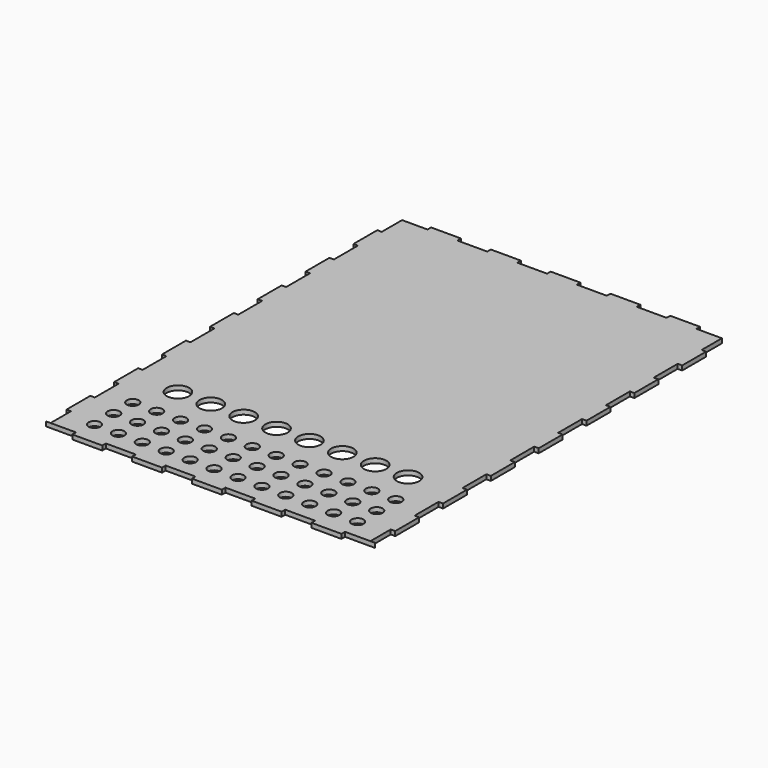
from build123d import *

# Parameters (mm, degrees)
SKETCH_W      = 220
SKETCH_H      = 300
PAD_DEPTH     = 3
SKETCH001_R   = 7.5
SKETCH001_R_2 = 4
SKETCH001_W   = 20
SKETCH001_H   = 3
SKETCH001_W_2 = 3
SKETCH001_H_2 = 20
SKETCH001_H_3 = 17
POCKET_DEPTH  = 5


with BuildPart() as part:
    # Sketch → Pad (new body)
    with BuildSketch(Plane.XY):
        with Locations((110, 150)):
            Rectangle(SKETCH_W, SKETCH_H)
    extrude(amount=PAD_DEPTH)

    # Sketch001 (on Face6 of Pad) → Pocket (cut)
    with BuildSketch(Plane.XY.offset(3)):
        with Locations((33, 72)):
            Circle(SKETCH001_R)
        with Locations((55, 72)):
            Circle(SKETCH001_R)
        with Locations((77, 72)):
            Circle(SKETCH001_R)
        with Locations((99, 72)):
            Circle(SKETCH001_R)
        with Locations((121, 72)):
            Circle(SKETCH001_R)
        with Locations((143, 72)):
            Circle(SKETCH001_R)
        with Locations((165, 72)):
            Circle(SKETCH001_R)
        with Locations((187, 72)):
            Circle(SKETCH001_R)
        with Locations((22, 48)):
            Circle(SKETCH001_R_2)
        with Locations((38, 48)):
            Circle(SKETCH001_R_2)
        with Locations((54, 48)):
            Circle(SKETCH001_R_2)
        with Locations((70, 48)):
            Circle(SKETCH001_R_2)
        with Locations((86, 48)):
            Circle(SKETCH001_R_2)
        with Locations((102, 48)):
            Circle(SKETCH001_R_2)
        with Locations((118, 48)):
            Circle(SKETCH001_R_2)
        with Locations((134, 48)):
            Circle(SKETCH001_R_2)
        with Locations((150, 48)):
            Circle(SKETCH001_R_2)
        with Locations((166, 48)):
            Circle(SKETCH001_R_2)
        with Locations((182, 48)):
            Circle(SKETCH001_R_2)
        with Locations((198, 48)):
            Circle(SKETCH001_R_2)
        with Locations((22, 32)):
            Circle(SKETCH001_R_2)
        with Locations((38, 32)):
            Circle(SKETCH001_R_2)
        with Locations((54, 32)):
            Circle(SKETCH001_R_2)
        with Locations((70, 32)):
            Circle(SKETCH001_R_2)
        with Locations((86, 32)):
            Circle(SKETCH001_R_2)
        with Locations((102, 32)):
            Circle(SKETCH001_R_2)
        with Locations((118, 32)):
            Circle(SKETCH001_R_2)
        with Locations((134, 32)):
            Circle(SKETCH001_R_2)
        with Locations((150, 32)):
            Circle(SKETCH001_R_2)
        with Locations((166, 32)):
            Circle(SKETCH001_R_2)
        with Locations((182, 32)):
            Circle(SKETCH001_R_2)
        with Locations((198, 32)):
            Circle(SKETCH001_R_2)
        with Locations((22, 16)):
            Circle(SKETCH001_R_2)
        with Locations((38, 16)):
            Circle(SKETCH001_R_2)
        with Locations((54, 16)):
            Circle(SKETCH001_R_2)
        with Locations((70, 16)):
            Circle(SKETCH001_R_2)
        with Locations((86, 16)):
            Circle(SKETCH001_R_2)
        with Locations((102, 16)):
            Circle(SKETCH001_R_2)
        with Locations((118, 16)):
            Circle(SKETCH001_R_2)
        with Locations((134, 16)):
            Circle(SKETCH001_R_2)
        with Locations((150, 16)):
            Circle(SKETCH001_R_2)
        with Locations((166, 16)):
            Circle(SKETCH001_R_2)
        with Locations((182, 16)):
            Circle(SKETCH001_R_2)
        with Locations((198, 16)):
            Circle(SKETCH001_R_2)
        with Locations((10, 1.5)):
            Rectangle(SKETCH001_W, SKETCH001_H)
        with Locations((50, 1.5)):
            Rectangle(SKETCH001_W, SKETCH001_H)
        with Locations((90, 1.5)):
            Rectangle(SKETCH001_W, SKETCH001_H)
        with Locations((130, 1.5)):
            Rectangle(SKETCH001_W, SKETCH001_H)
        with Locations((170, 1.5)):
            Rectangle(SKETCH001_W, SKETCH001_H)
        with Locations((210, 1.5)):
            Rectangle(SKETCH001_W, SKETCH001_H)
        with Locations((10, 298.5)):
            Rectangle(SKETCH001_W, SKETCH001_H)
        with Locations((50, 298.5)):
            Rectangle(SKETCH001_W, SKETCH001_H)
        with Locations((90, 298.5)):
            Rectangle(SKETCH001_W, SKETCH001_H)
        with Locations((130, 298.5)):
            Rectangle(SKETCH001_W, SKETCH001_H)
        with Locations((170, 298.5)):
            Rectangle(SKETCH001_W, SKETCH001_H)
        with Locations((210, 298.5)):
            Rectangle(SKETCH001_W, SKETCH001_H)
        with Locations((1.5, 50)):
            Rectangle(SKETCH001_W_2, SKETCH001_H_2)
        with Locations((1.5, 90)):
            Rectangle(SKETCH001_W_2, SKETCH001_H_2)
        with Locations((1.5, 130)):
            Rectangle(SKETCH001_W_2, SKETCH001_H_2)
        with Locations((1.5, 170)):
            Rectangle(SKETCH001_W_2, SKETCH001_H_2)
        with Locations((1.5, 210)):
            Rectangle(SKETCH001_W_2, SKETCH001_H_2)
        with Locations((1.5, 250)):
            Rectangle(SKETCH001_W_2, SKETCH001_H_2)
        with Locations((218.5, 50)):
            Rectangle(SKETCH001_W_2, SKETCH001_H_2)
        with Locations((218.5, 90)):
            Rectangle(SKETCH001_W_2, SKETCH001_H_2)
        with Locations((218.5, 130)):
            Rectangle(SKETCH001_W_2, SKETCH001_H_2)
        with Locations((218.5, 170)):
            Rectangle(SKETCH001_W_2, SKETCH001_H_2)
        with Locations((218.5, 210)):
            Rectangle(SKETCH001_W_2, SKETCH001_H_2)
        with Locations((218.5, 250)):
            Rectangle(SKETCH001_W_2, SKETCH001_H_2)
        with Locations((1.5, 11.51)):
            Rectangle(SKETCH001_W_2, SKETCH001_H_3)
        with Locations((1.5, 288.5)):
            Rectangle(SKETCH001_W_2, SKETCH001_H_3)
        with Locations((218.5, 288.5)):
            Rectangle(SKETCH001_W_2, SKETCH001_H_3)
        with Locations((218.5, 11.51)):
            Rectangle(SKETCH001_W_2, SKETCH001_H_3)
    extrude(amount=-POCKET_DEPTH, mode=Mode.SUBTRACT)


solid = part.part
